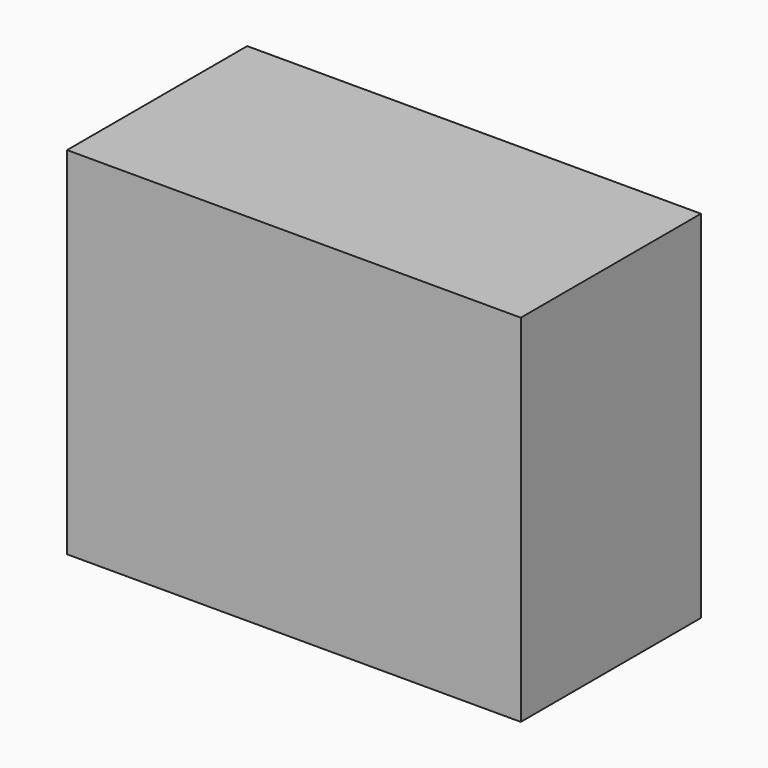
from build123d import *

# Parameters (mm, degrees)
F0_W           = 100.7501929998
F0_H           = 79.0197588503
F1_DEPTH       = 50
F2_D           = 5
F2_DEPTH       = 12
F2_CSINK_D     = 11.2
F2_CSINK_ANGLE = 90
F2_TIP         = 1.5021515476


with BuildPart() as f1:
    # F0 (on Front) → F1 (new body)
    with BuildSketch(Plane.XZ):
        Rectangle(F0_W, F0_H)
    extrude(amount=F1_DEPTH)

    # F2
    with Locations(Plane(origin=(0, 0, 0), x_dir=(1, 0, 0), z_dir=(0, 1, 0))):
        with Locations((-35.3750964999, -24.5098794252), (35.3750964999, -24.5098794252), (35.3750964999, 24.5098794252), (-35.3750964999, 24.5098794252)):
            CounterSinkHole(F2_D / 2, F2_CSINK_D / 2, depth=F2_DEPTH, counter_sink_angle=F2_CSINK_ANGLE)
            with Locations((0, 0, -(F2_DEPTH + F2_TIP / 2))):  # 118° drill point
                Cone(0, F2_D / 2, F2_TIP, mode=Mode.SUBTRACT)


solid = f1.part
